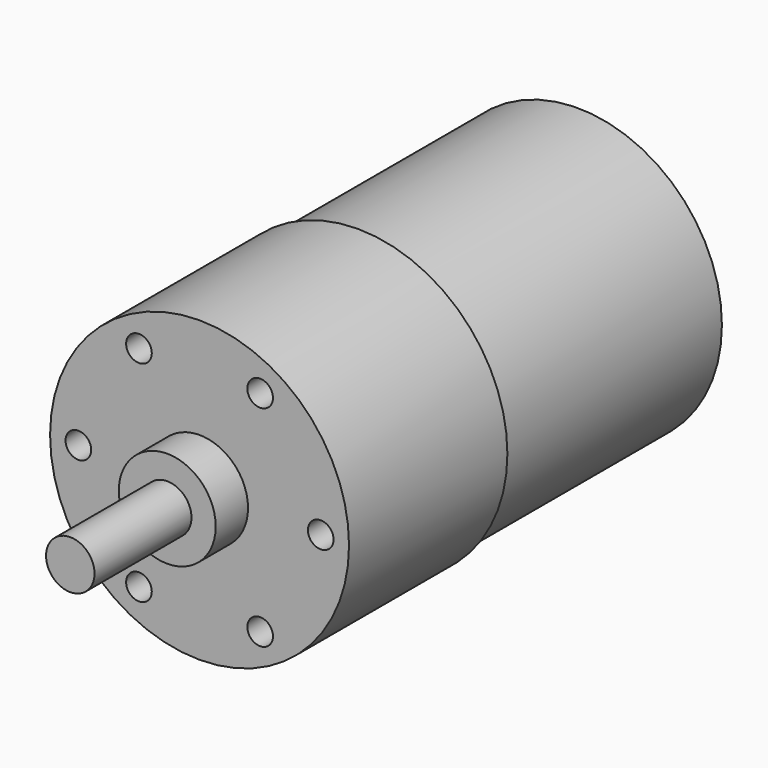
from build123d import *

# Parameters (mm, degrees)
SKETCH_R     = 18.5
PAD_DEPTH    = 24.5
SKETCH001_R  = 6
PAD001_DEPTH = 5
SKETCH002_R  = 3
PAD002_DEPTH = 15
SKETCH003_R  = 17.85
PAD003_DEPTH = 34
SKETCH004_W  = 1.450325
SKETCH004_H  = 4.868494
PAD004_DEPTH = 5.08
SKETCH005_R  = 1.5875
POCKET_DEPTH = 6.35


with BuildPart() as part:
    # Sketch → Pad (new body)
    with BuildSketch(Plane.XZ):
        Circle(SKETCH_R)
    extrude(amount=PAD_DEPTH)

    # Sketch001 (on Face3 of Pad) → Pad001 (join)
    with BuildSketch(Plane.XZ.offset(24.5)):
        Circle(SKETCH001_R)
    extrude(amount=PAD001_DEPTH)

    # Sketch002 (on Face5 of Pad001) → Pad002 (join)
    with BuildSketch(Plane.XZ.offset(29.5)):
        Circle(SKETCH002_R)
    extrude(amount=PAD002_DEPTH)

    # Sketch003 (on Face2 of Pad002) → Pad003 (join)
    with BuildSketch(Plane(origin=(0, 0, 0), x_dir=(1, 0, 0), z_dir=(0, 1, 0))):
        Circle(SKETCH003_R)
    extrude(amount=PAD003_DEPTH)

    # Sketch004 (on Face6 of Pad003) → Pad004 (join)
    with BuildSketch(Plane(origin=(0, 34, 0), x_dir=(1, 0, 0), z_dir=(0, 1, 0))):
        with Locations((-11.984146, 0)):
            Rectangle(SKETCH004_W, SKETCH004_H)
        with Locations((11.984146, 0)):
            Rectangle(SKETCH004_W, SKETCH004_H)
    extrude(amount=PAD004_DEPTH)

    # Sketch005 (on Face3 of Pad004) → Pocket (cut)
    with BuildSketch(Plane.XZ.offset(24.5)):
        with Locations((-7.49935, 12.989255)):
            Circle(SKETCH005_R)
        with Locations((-14.9987, 0)):
            Circle(SKETCH005_R)
        with Locations((-7.49935, -12.989255)):
            Circle(SKETCH005_R)
        with Locations((7.49935, -12.989255)):
            Circle(SKETCH005_R)
        with Locations((14.9987, 0)):
            Circle(SKETCH005_R)
        with Locations((7.49935, 12.989255)):
            Circle(SKETCH005_R)
    extrude(amount=-POCKET_DEPTH, mode=Mode.SUBTRACT)


solid = part.part
